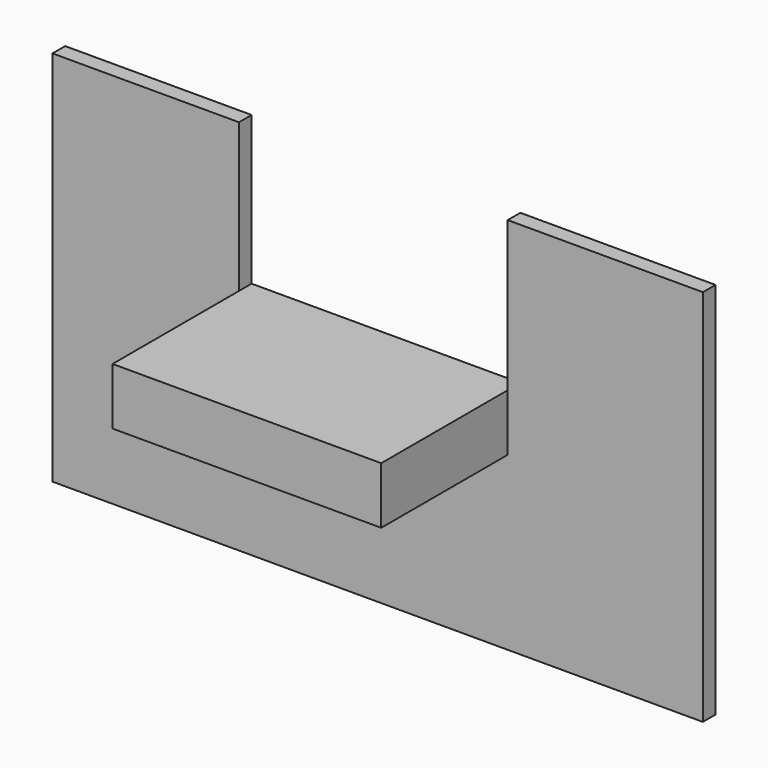
from build123d import *

# Parameters (mm, degrees)
F0_W     = 1700
F0_H     = 360
F1_DEPTH = 1100
F3_DEPTH = 100


with BuildPart() as f1:
    # F0 (on Front) → F1 (new body)
    with BuildSketch(Plane.XZ):
        with Locations((681.494432, 97.976522)):
            Rectangle(F0_W, F0_H)
    extrude(amount=F1_DEPTH)

    # F2 (on face) → F3 (join)
    with BuildSketch(Plane(origin=(0, 0, 0), x_dir=(-1, 0, 0), z_dir=(0, 1, 0))):
        Polygon((168.505568, 277.976522), (-1531.494432, 277.976522), (-1531.494432, 1225.566149), (-2766.393661, 1225.566149), (-2766.393661, 277.976522), (-2766.393661, -82.023478), (-2766.393661, -1168.028712), (1348.348022, -1168.028712), (1348.348022, -82.023478), (1348.348022, 277.976522), (1348.348022, 1217.560768), (168.505568, 1217.560768), align=None)
    extrude(amount=-F3_DEPTH)


solid = f1.part
